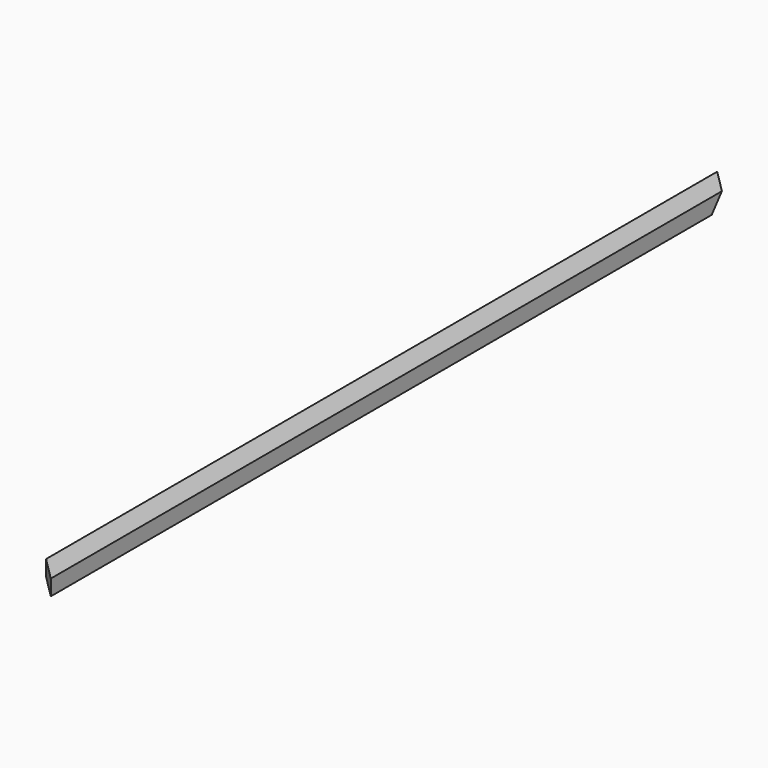
from build123d import *

# Parameters (mm, degrees)
F0_W     = 75
F0_H     = 50
F1_DEPTH = 1374
F3_DEPTH = 50.001


with BuildPart() as f1:
    # F0 (on Front) → F1 (new body, symmetric)
    with BuildSketch(Plane.XZ):
        with Locations((37.5, 25)):
            Rectangle(F0_W, F0_H)
    extrude(amount=F1_DEPTH, both=True)

    # F2 (on face) → F3 (cut, through all)
    with BuildSketch(Plane.XY.offset(50)):
        Polygon((0, 1374), (75, 1299), (75, 1374), align=None)
        Polygon((0, -1374), (75, -1374), (0, -1299), align=None)
    extrude(amount=-F3_DEPTH, mode=Mode.SUBTRACT)

    # F5: sweep along a path in F5_path
    with BuildLine(Plane(origin=(75, 1299, 0), x_dir=(0.7071067812, -0.7071067812, 0), z_dir=(0.7071067812, 0.7071067812, 0))) as f5_path:
        Line((0, 0), (-106.066017178, 0))
    # F4 (on face) → F5 (sweep, cut)
    with BuildSketch(Plane(origin=(0, 0, 0), x_dir=(0, -1, 0), z_dir=(-1, 0, 0))):
        Polygon((-1333.5107983402, 0), (-1374, 50), (-1374, 0), align=None)
    sweep(path=f5_path.line, mode=Mode.SUBTRACT)


solid = f1.part
